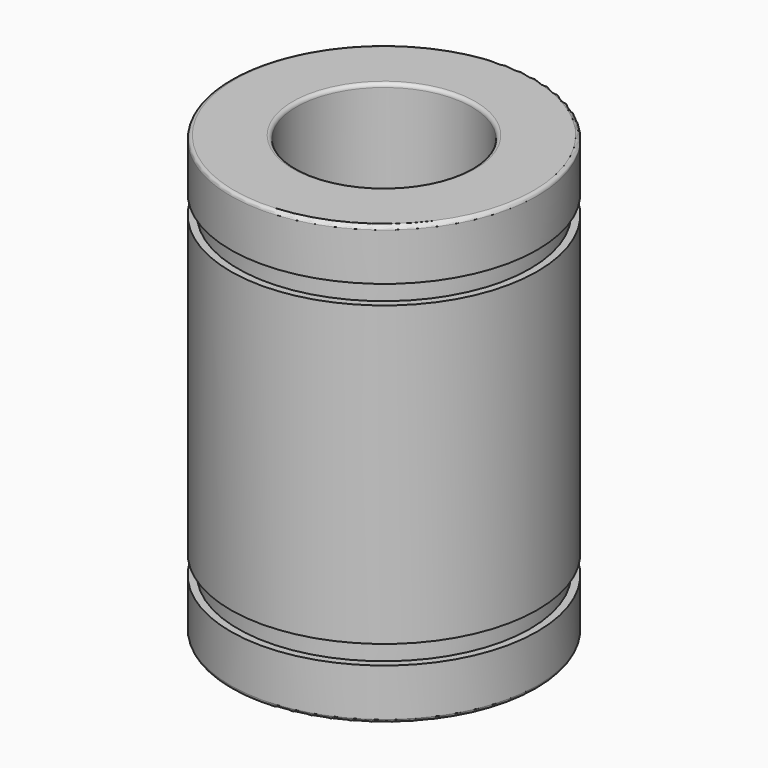
from build123d import *

# Parameters (mm, degrees)
F0_R     = 10.5
F0_R_2   = 6
F1_DEPTH = 30
F2_R     = 0.25
F4_START = -3.5
F3_R     = 16
F3_R_2   = 10
F4_DEPTH = 1.3
F5_START = -25.2
F5_DEPTH = 1.3


with BuildPart() as f1:
    # F0 (on Top) → F1 (new body)
    with BuildSketch(Plane.XY):
        Circle(F0_R)
        Circle(F0_R_2, mode=Mode.SUBTRACT)
    extrude(amount=F1_DEPTH)

    # F2
    f2_edges = [f1.edges().sort_by_distance(p)[0] for p in [
        (-10.5, 0, 30),
        (-6, 0, 30),
        (-10.5, 0, 0),
        (-6, 0, 0),
    ]]
    fillet(f2_edges, radius=F2_R)

    # F3 (on face) → F4 (cut)
    with BuildSketch(Plane.XY.offset(30).offset(F4_START)):
        Circle(F3_R)
        Circle(F3_R_2, mode=Mode.SUBTRACT)
    extrude(amount=-F4_DEPTH, mode=Mode.SUBTRACT)

    # F3 (on face) → F5 (cut)
    with BuildSketch(Plane.XY.offset(30).offset(F5_START)):
        Circle(F3_R)
        Circle(F3_R_2, mode=Mode.SUBTRACT)
    extrude(amount=-F5_DEPTH, mode=Mode.SUBTRACT)


solid = f1.part
